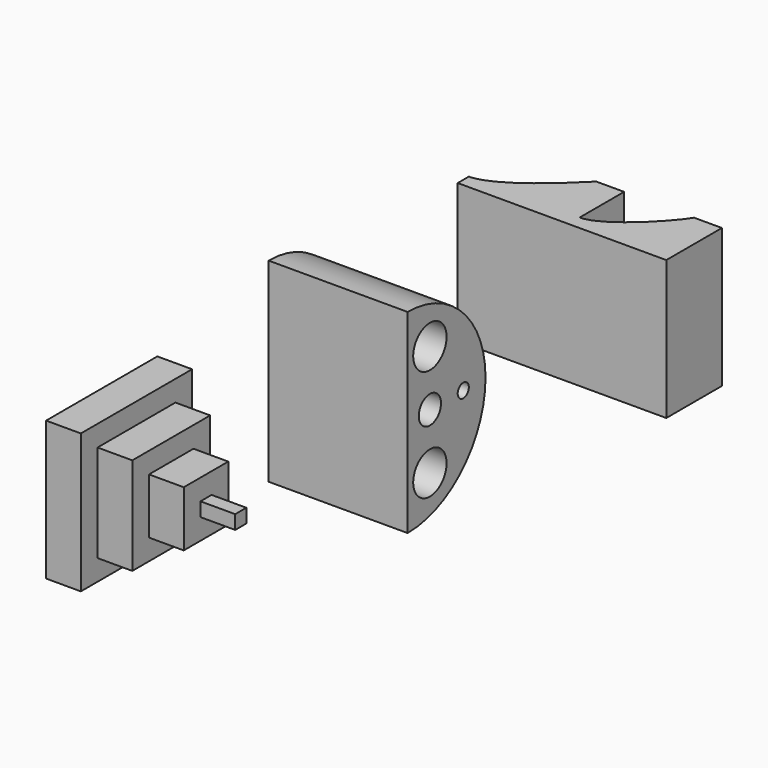
from build123d import *

# Parameters (mm, degrees)
F0_W     = 10
F0_H     = 10
F0_W_2   = 7
F0_H_2   = 7
F0_W_3   = 4
F0_H_3   = 4
F0_W_4   = 1
F0_H_4   = 1
F1_DEPTH = 2.5
F2_DEPTH = 5
F3_DEPTH = 7.5
F4_DEPTH = 10
F0_R     = 1.5
F0_R_2   = 1
F0_R_3   = 0.5
F5_DEPTH = 10
F0_W_5   = 5
F6_DEPTH = 15
F8_DEPTH = 25


with BuildPart() as f1:
    # F0 (on Right) → F1 (new body)
    with BuildSketch(Plane.YZ):
        with Locations((-15, -7)):
            Rectangle(F0_W, F0_H)
        with Locations((-15, -7)):
            Rectangle(F0_W_2, F0_H_2, mode=Mode.SUBTRACT)
        with Locations((-15, -7)):
            Rectangle(F0_W_2, F0_H_2)
        with Locations((-15, -7)):
            Rectangle(F0_W_3, F0_H_3, mode=Mode.SUBTRACT)
        with Locations((-15, -7)):
            Rectangle(F0_W_3, F0_H_3)
        with Locations((-15, -7)):
            Rectangle(F0_W_4, F0_H_4, mode=Mode.SUBTRACT)
        with Locations((-15, -7)):
            Rectangle(F0_W_4, F0_H_4)
    extrude(amount=F1_DEPTH)

    # F0 (on Right) → F2 (join)
    with BuildSketch(Plane.YZ):
        with Locations((-15, -7)):
            Rectangle(F0_W_2, F0_H_2)
        with Locations((-15, -7)):
            Rectangle(F0_W_3, F0_H_3, mode=Mode.SUBTRACT)
        with Locations((-15, -7)):
            Rectangle(F0_W_3, F0_H_3)
        with Locations((-15, -7)):
            Rectangle(F0_W_4, F0_H_4, mode=Mode.SUBTRACT)
        with Locations((-15, -7)):
            Rectangle(F0_W_4, F0_H_4)
    extrude(amount=F2_DEPTH)

    # F0 (on Right) → F3 (join)
    with BuildSketch(Plane.YZ):
        with Locations((-15, -7)):
            Rectangle(F0_W_3, F0_H_3)
        with Locations((-15, -7)):
            Rectangle(F0_W_4, F0_H_4, mode=Mode.SUBTRACT)
        with Locations((-15, -7)):
            Rectangle(F0_W_4, F0_H_4)
    extrude(amount=F3_DEPTH)

    # F0 (on Right) → F4 (join)
    with BuildSketch(Plane.YZ):
        with Locations((-15, -7)):
            Rectangle(F0_W_4, F0_H_4)
    extrude(amount=F4_DEPTH)


with BuildPart() as f5:
    # F0 (on Right) → F5 (new body)
    with BuildSketch(Plane.YZ):
        with BuildLine():
            ThreePointArc((0, -14), (7, -7), (0, 0))
            Line((0, 0), (0, -14))
        make_face()
        with Locations((2, -11)):
            Circle(F0_R, mode=Mode.SUBTRACT)
        with Locations((2, -7)):
            Circle(F0_R_2, mode=Mode.SUBTRACT)
        with Locations((5, -7)):
            Circle(F0_R_3, mode=Mode.SUBTRACT)
        with Locations((2, -3)):
            Circle(F0_R, mode=Mode.SUBTRACT)
    extrude(amount=F5_DEPTH)


with BuildPart() as f6:
    # F0 (on Right) → F6 (new body)
    with BuildSketch(Plane.YZ):
        with Locations((19.5, -7)):
            Rectangle(F0_W_5, F0_H)
    extrude(amount=F6_DEPTH)

    # F7 (on Top) → F8 (cut)
    with BuildSketch(Plane.XY):
        with BuildLine():
            Line((13, 22), (7.9664092259, 22))
            Line((7.9664092259, 22), (7.9664092259, 18))
            add(Edge.make_bspline(
                [(7.9664092259, 18), (9.6468937332, 18.0028863251), (12.4226497308, 21), (13, 22)],
                knots=[0, 0, 0, 0, 6.4293884686, 6.4293884686, 6.4293884686, 6.4293884686], degree=3))
        make_face()
        with BuildLine():
            Line((0, 22), (0, 18))
            add(Edge.make_bspline(
                [(0, 18), (2, 18), (5.2593024448, 21.2928932188), (5.9664092259, 22)],
                knots=[0, 0, 0, 0, 7.1831775038, 7.1831775038, 7.1831775038, 7.1831775038], degree=3))
            Line((5.9664092259, 22), (0, 22))
        make_face()
    extrude(amount=-F8_DEPTH, mode=Mode.SUBTRACT)


solid = Compound([f1.part, f5.part, f6.part])
